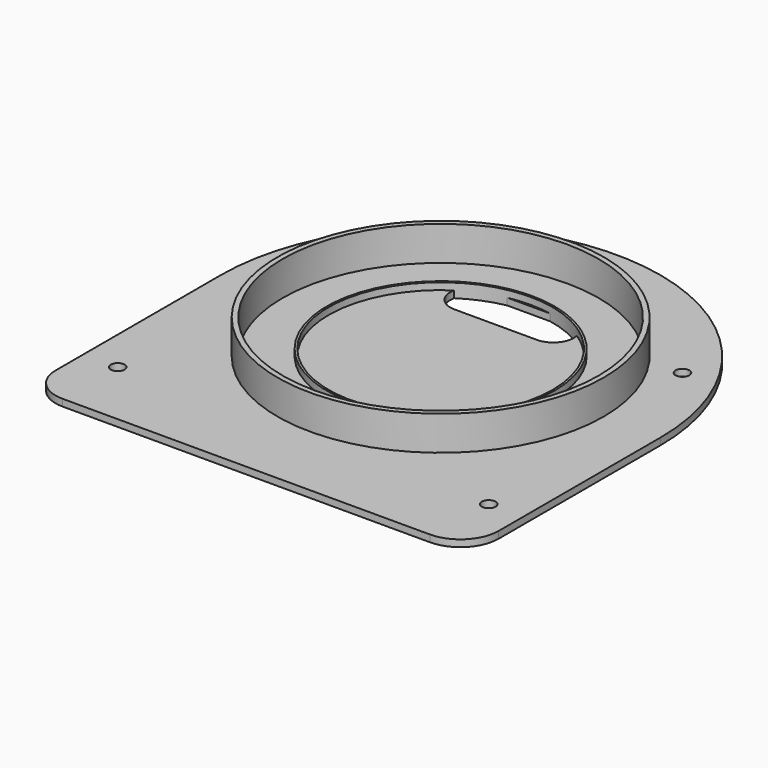
from build123d import *

# Parameters (mm, degrees)
TUBE_R        = 23.75
TUBE_R_2      = 23
TUBE_DEPTH    = 6
SKETCH004_R   = 1
PAD002_DEPTH  = 1
SKETCH006_R   = 16.6
SKETCH006_R_2 = 16.3
PAD003_DEPTH  = 2


with BuildPart() as tube:
    # Tube → Tube (new body)
    with BuildSketch(Plane.XY):
        Circle(TUBE_R)
        Circle(TUBE_R_2, mode=Mode.SUBTRACT)
    extrude(amount=TUBE_DEPTH)


with BuildPart() as fusion002:
    # Sketch004 → Pad002 (new body)
    with BuildSketch(Plane.XY):
        with BuildLine():
            ThreePointArc((32, 0), (0, 32), (-32, 0))
            Line((-32, 0), (-32, -30.055735))
            ThreePointArc((-32, -30.055735), (-30.551858, -33.551858), (-27.055735, -35))
            Line((-27.055735, -35), (26.427752, -35))
            ThreePointArc((26.427752, -35), (30.367926, -33.367926), (32, -29.427752))
            Line((32, -29.427752), (32, 0))
        make_face()
        with Locations((-27, -25)):
            Circle(SKETCH004_R, mode=Mode.SUBTRACT)
        with Locations((27, -25)):
            Circle(SKETCH004_R, mode=Mode.SUBTRACT)
        with Locations((24, 14)):
            Circle(SKETCH004_R, mode=Mode.SUBTRACT)
        with Locations((-24, 14)):
            Circle(SKETCH004_R, mode=Mode.SUBTRACT)
        with BuildLine():
            ThreePointArc((-6, 16), (-9, 13), (-6, 10))
            Line((-6, 10), (6, 10))
            ThreePointArc((6, 10), (9, 13), (6, 16))
            Line((6, 16), (-6, 16))
        make_face(mode=Mode.SUBTRACT)
    extrude(amount=PAD002_DEPTH)

    # Sketch006 → Pad003 (join)
    with BuildSketch(Plane.XY):
        Circle(SKETCH006_R)
        Circle(SKETCH006_R_2, mode=Mode.SUBTRACT)
    extrude(amount=PAD003_DEPTH)

    # Fusion002: union Tube
    add(tube.part)


solid = fusion002.part
